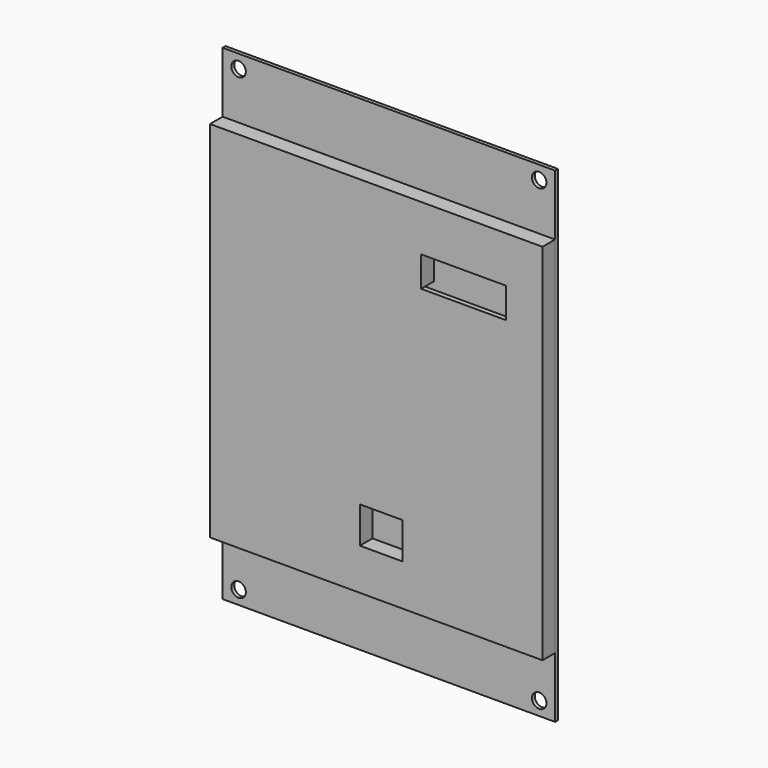
from build123d import *

# Parameters (mm, degrees)
F0_W      = 274
F0_H      = 400
F2_DEPTH  = 13
F1_W      = 257
F1_H      = 174
F3_DEPTH  = 9
F4_W      = 274
F4_H      = 400
F4_W_2    = 220
F4_H_2    = 130
F5_DEPTH  = 3
F6_W      = 272.697836
F6_H      = 207.733818
F7_DEPTH  = 3
F9_W      = 35
F9_H      = 30
F10_DEPTH = 13
F11_W     = 70
F11_H     = 25
F12_DEPTH = 13
F13_R     = 5.97192
F14_DEPTH = 16.001
F15_DEPTH = 25
F16_DEPTH = 25
F17_DEPTH = 25
F18_W     = 274
F18_H     = 50
F19_DEPTH = 13.001


with BuildPart() as f2:
    # F0 (on Front) → F2 (new body)
    with BuildSketch(Plane.XZ):
        Rectangle(F0_W, F0_H)
    extrude(amount=F2_DEPTH)

    # F1 (on face) → F3 (cut)
    with BuildSketch(Plane.XZ):
        Rectangle(F1_W, F1_H)
    extrude(amount=F3_DEPTH, mode=Mode.SUBTRACT)

    # F9 (on face) → F10 (cut)
    with BuildSketch(Plane.XZ.offset(13)):
        with Locations((4, -100.792492)):
            Rectangle(F9_W, F9_H)
    extrude(amount=-F10_DEPTH, mode=Mode.SUBTRACT)

    # F11 (on face) → F12 (cut)
    with BuildSketch(Plane(origin=(0, 0, 0), x_dir=(-1, 0, 0), z_dir=(0, 1, 0))):
        with Locations((-72, 99.5)):
            Rectangle(F11_W, F11_H)
    extrude(amount=-F12_DEPTH, mode=Mode.SUBTRACT)


with BuildPart() as f5:
    # F4 (on face) → F5 (new body)
    with BuildSketch(Plane(origin=(0, 0, 0), x_dir=(-1, 0, 0), z_dir=(0, 1, 0))):
        Rectangle(F4_W, F4_H)
        Rectangle(F4_W_2, F4_H_2, mode=Mode.SUBTRACT)
    extrude(amount=F5_DEPTH)


with BuildPart() as f7:
    # F6 (on face) → F7 (new body)
    with BuildSketch(Plane(origin=(0, -9, 0), x_dir=(-1, 0, 0), z_dir=(0, 1, 0))):
        with Locations((-0.3777, 1.888495)):
            Rectangle(F6_W, F6_H)
    extrude(amount=F7_DEPTH)


with BuildPart() as f14_tool:
    # F13 (on face) → F14 (new body, through all)
    with BuildSketch(Plane(origin=(0, 3, 0), x_dir=(-1, 0, 0), z_dir=(0, 1, 0))):
        with Locations((-123.849541, 188.828528)):
            Circle(F13_R)
    extrude(amount=-F14_DEPTH)


with BuildPart() as f2_1:
    add(f2.part)

    # F14: cut by f14_tool
    add(f14_tool.part, mode=Mode.SUBTRACT)


with BuildPart() as f5_1:
    add(f5.part)

    # F14: cut by f14_tool
    add(f14_tool.part, mode=Mode.SUBTRACT)


with BuildPart() as f15_tool:
    # F13 (on face) → F15 (new body)
    with BuildSketch(Plane(origin=(0, 3, 0), x_dir=(-1, 0, 0), z_dir=(0, 1, 0))):
        with Locations((123.849541, 188.828528)):
            Circle(F13_R)
    extrude(amount=-F15_DEPTH)


with BuildPart() as f2_2:
    add(f2_1.part)

    # F15: cut by f15_tool
    add(f15_tool.part, mode=Mode.SUBTRACT)


with BuildPart() as f5_2:
    add(f5_1.part)

    # F15: cut by f15_tool
    add(f15_tool.part, mode=Mode.SUBTRACT)


with BuildPart() as f16_tool:
    # F13 (on face) → F16 (new body)
    with BuildSketch(Plane(origin=(0, 3, 0), x_dir=(-1, 0, 0), z_dir=(0, 1, 0))):
        with Locations((-123.849541, -188.828528)):
            Circle(F13_R)
    extrude(amount=-F16_DEPTH)


with BuildPart() as f2_3:
    add(f2_2.part)

    # F16: cut by f16_tool
    add(f16_tool.part, mode=Mode.SUBTRACT)


with BuildPart() as f5_3:
    add(f5_2.part)

    # F16: cut by f16_tool
    add(f16_tool.part, mode=Mode.SUBTRACT)


with BuildPart() as f17_tool:
    # F13 (on face) → F17 (new body)
    with BuildSketch(Plane(origin=(0, 3, 0), x_dir=(-1, 0, 0), z_dir=(0, 1, 0))):
        with Locations((123.849541, -188.828528)):
            Circle(F13_R)
    extrude(amount=-F17_DEPTH)


with BuildPart() as f2_4:
    add(f2_3.part)

    # F17: cut by f17_tool
    add(f17_tool.part, mode=Mode.SUBTRACT)

    # F18 (on face) → F19 (cut, through all)
    with BuildSketch(Plane(origin=(0, 0, 0), x_dir=(-1, 0, 0), z_dir=(0, 1, 0))):
        with Locations((0, 175)):
            Rectangle(F18_W, F18_H)
        with Locations((0, -175)):
            Rectangle(F18_W, F18_H)
    extrude(amount=-F19_DEPTH, mode=Mode.SUBTRACT)


with BuildPart() as f5_4:
    add(f5_3.part)

    # F17: cut by f17_tool
    add(f17_tool.part, mode=Mode.SUBTRACT)


solid = Compound([f2_4.part, f5_4.part])
